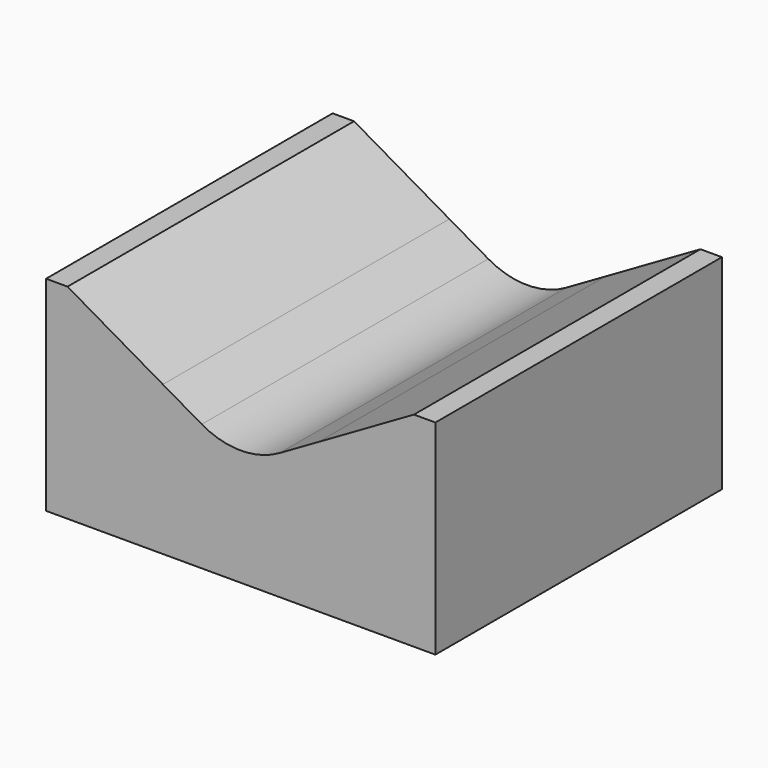
from build123d import *

# Parameters (mm, degrees)
F1_DEPTH = 4.6
F2_R     = 2


with BuildPart() as f1:
    # F0 (on Front) → F1 (new body, symmetric)
    with BuildSketch(Plane.XZ):
        Polygon((0, 5.25), (0, 0), (10, 0), (10, 5.25), (9.449296, 5.25), (7, 3.835898), (5, 2.681198), (3, 3.835898), (0.550704, 5.25), align=None)
    extrude(amount=F1_DEPTH, both=True)

    # F2
    f2_edges = [f1.edges().sort_by_distance(p)[0] for p in [
        (5, 0, 2.681198),
    ]]
    fillet(f2_edges, radius=F2_R)


solid = f1.part
